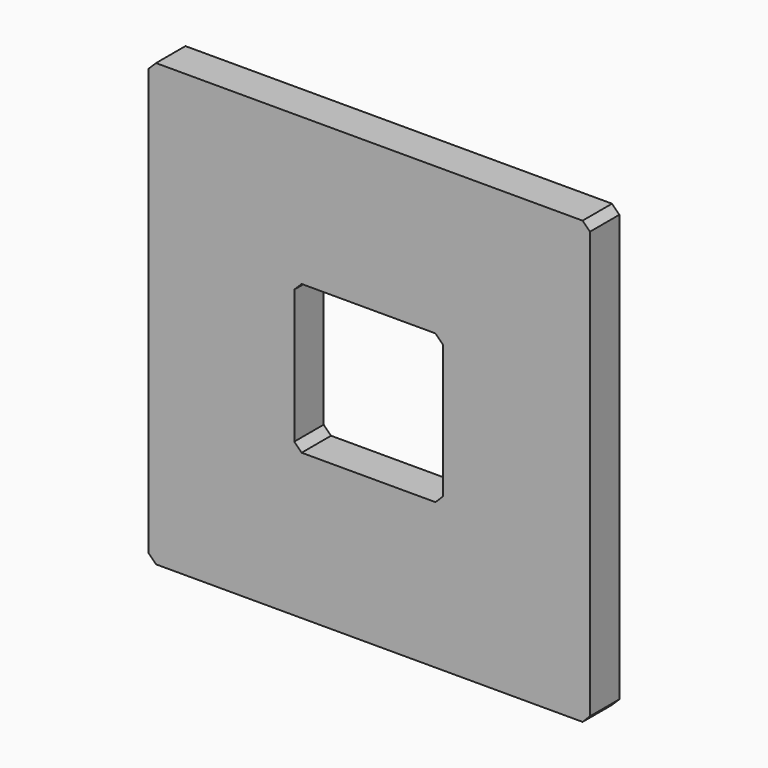
from build123d import *

# Parameters (mm, degrees)
F0_W     = 300
F0_H     = 300
F0_W_2   = 101
F0_H_2   = 101
F1_DEPTH = 25
F2_SIZE  = 5


with BuildPart() as f1:
    # F0 (on Front) → F1 (new body)
    with BuildSketch(Plane.XZ):
        with Locations((150, -150)):
            Rectangle(F0_W, F0_H)
        with Locations((149.5, -150.5)):
            Rectangle(F0_W_2, F0_H_2, mode=Mode.SUBTRACT)
    extrude(amount=F1_DEPTH)

    # F2
    f2_edges = [f1.edges().sort_by_distance(p)[0] for p in [
        (0, -12.5, -300),
        (300, -12.5, -300),
        (300, -12.5, 0),
        (0, -12.5, 0),
        (200, -12.5, -201),
        (200, -12.5, -100),
        (99, -12.5, -100),
        (99, -12.5, -201),
    ]]
    chamfer(f2_edges, length=F2_SIZE)


solid = f1.part
